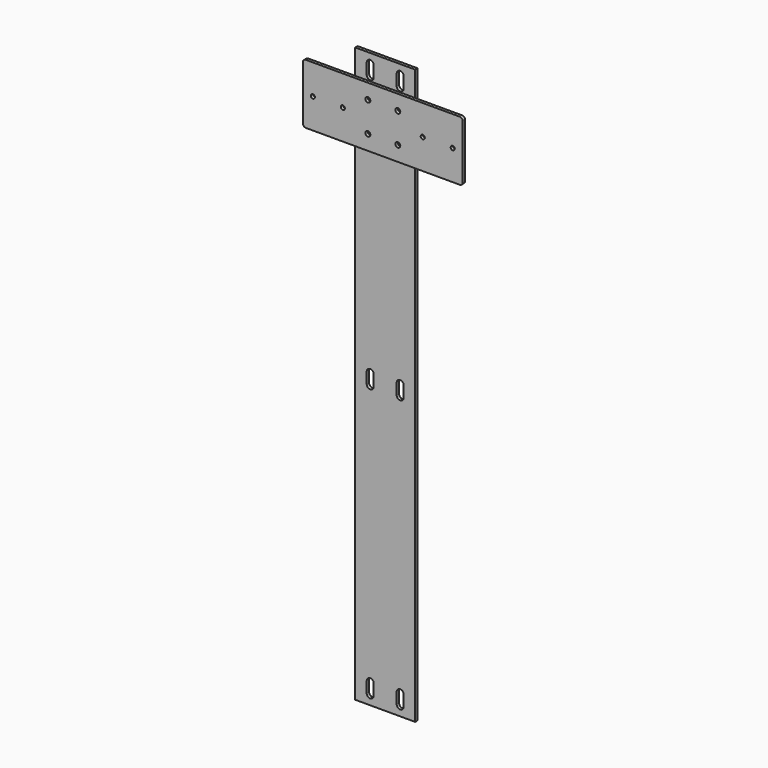
from build123d import *

# Parameters (mm, degrees)
F0_W     = 60
F0_H     = 575
F0_R     = 2.05
F1_DEPTH = 3
F2_W     = 160
F2_H     = 60
F2_R     = 2.5
F2_R_2   = 2.05
F3_DEPTH = 3
F4_R     = 3


with BuildPart() as f1:
    # F0 (on Front) → F1 (new body)
    with BuildSketch(Plane.XZ):
        with Locations((0, 287.5)):
            Rectangle(F0_W, F0_H)
        with BuildLine():
            Line((-11.5, 20.5), (-11.5, 9.5))
            ThreePointArc((-11.5, 9.5), (-15, 6), (-18.5, 9.5))
            Line((-18.5, 9.5), (-18.5, 20.5))
            ThreePointArc((-18.5, 20.5), (-15, 24), (-11.5, 20.5))
        make_face(mode=Mode.SUBTRACT)
        with BuildLine():
            Line((18.5, 20.5), (18.5, 9.5))
            ThreePointArc((18.5, 9.5), (15, 6), (11.5, 9.5))
            Line((11.5, 9.5), (11.5, 20.5))
            ThreePointArc((11.5, 20.5), (15, 24), (18.5, 20.5))
        make_face(mode=Mode.SUBTRACT)
        with BuildLine():
            Line((-11.5, 293), (-11.5, 282))
            ThreePointArc((-11.5, 282), (-15, 278.5), (-18.5, 282))
            Line((-18.5, 282), (-18.5, 293))
            ThreePointArc((-18.5, 293), (-15, 296.5), (-11.5, 293))
        make_face(mode=Mode.SUBTRACT)
        with Locations((-15, 505)):
            Circle(F0_R, mode=Mode.SUBTRACT)
        with Locations((-15, 535)):
            Circle(F0_R, mode=Mode.SUBTRACT)
        with BuildLine():
            Line((-11.5, 565.5), (-11.5, 554.5))
            ThreePointArc((-11.5, 554.5), (-15, 551), (-18.5, 554.5))
            Line((-18.5, 554.5), (-18.5, 565.5))
            ThreePointArc((-18.5, 565.5), (-15, 569), (-11.5, 565.5))
        make_face(mode=Mode.SUBTRACT)
        with BuildLine():
            Line((18.5, 293), (18.5, 282))
            ThreePointArc((18.5, 282), (15, 278.5), (11.5, 282))
            Line((11.5, 282), (11.5, 293))
            ThreePointArc((11.5, 293), (15, 296.5), (18.5, 293))
        make_face(mode=Mode.SUBTRACT)
        with Locations((15, 505)):
            Circle(F0_R, mode=Mode.SUBTRACT)
        with Locations((15, 535)):
            Circle(F0_R, mode=Mode.SUBTRACT)
        with BuildLine():
            Line((18.5, 565.5), (18.5, 554.5))
            ThreePointArc((18.5, 554.5), (15, 551), (11.5, 554.5))
            Line((11.5, 554.5), (11.5, 565.5))
            ThreePointArc((11.5, 565.5), (15, 569), (18.5, 565.5))
        make_face(mode=Mode.SUBTRACT)
    extrude(amount=F1_DEPTH)


with BuildPart() as f3:
    # F2 (on face) → F3 (new body)
    with BuildSketch(Plane.XZ.offset(3)):
        with Locations((0, 520)):
            Rectangle(F2_W, F2_H)
        with Locations((-15, 505)):
            Circle(F2_R, mode=Mode.SUBTRACT)
        with Locations((15, 505)):
            Circle(F2_R, mode=Mode.SUBTRACT)
        with Locations((-70, 520)):
            Circle(F2_R_2, mode=Mode.SUBTRACT)
        with Locations((-40, 520)):
            Circle(F2_R_2, mode=Mode.SUBTRACT)
        with Locations((-15, 535)):
            Circle(F2_R, mode=Mode.SUBTRACT)
        with Locations((40, 520)):
            Circle(F2_R_2, mode=Mode.SUBTRACT)
        with Locations((70, 520)):
            Circle(F2_R_2, mode=Mode.SUBTRACT)
        with Locations((15, 535)):
            Circle(F2_R, mode=Mode.SUBTRACT)
    extrude(amount=F3_DEPTH)

    # F4
    f4_edges = [f3.edges().sort_by_distance(p)[0] for p in [
        (-80, -4.5, 550),
        (-80, -4.5, 490),
        (80, -4.5, 550),
        (80, -4.5, 490),
    ]]
    fillet(f4_edges, radius=F4_R)


solid = Compound([f1.part, f3.part])
